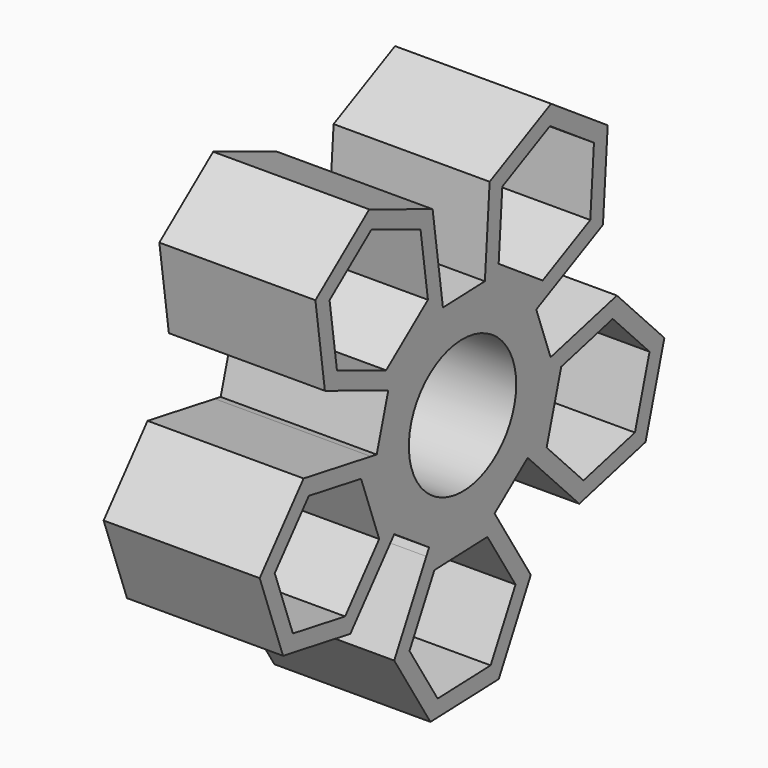
from build123d import *

# Parameters (mm, degrees)
F0_R     = 10.92
F1_DEPTH = 25.4
F2_DEPTH = 25


with BuildPart() as f1:
    # F0 (on Right) → F1 (new body)
    with BuildSketch(Plane.YZ):
        Polygon((29.540967, 29.558321), (18.013362, 37.331063), (5.518167, 31.234235), (4.550577, 17.364665), (-3.986563, 17.065152), (-4.154029, 18.255328), (-6.091229, 32.022988), (-18.982973, 37.229153), (-29.937516, 28.667658), (-28.000315, 14.899998), (-15.108572, 9.693833), (-17.46184, 1.481975), (-18.645514, 1.69049), (-32.337964, 4.102544), (-41.27309, -6.549439), (-36.515764, -19.613476), (-22.823314, -22.02553), (-13.888188, -11.373547), (-6.805447, -16.149241), (-7.369532, -17.210547), (-13.894732, -29.487476), (-6.525199, -41.276929), (7.369532, -40.789453), (13.894732, -28.512524), (6.525199, -16.723071), (13.255842, -11.462755), (14.090892, -12.327193), (23.750548, -22.326806), (37.240294, -18.961106), (41.070386, -5.595792), (31.41073, 4.403821), (17.920983, 1.03812), (14.998008, 9.064869), (16.078183, 9.591923), (28.573378, 15.688751), align=None)
        Polygon((-31.272916, 1.177826), (-20.645869, -0.694228), (-16.953593, -10.833547), (-23.888362, -19.100812), (-34.515409, -17.228758), (-38.207685, -7.089439), align=None, mode=Mode.SUBTRACT)
        Polygon((5.064367, -19.471575), (10.784042, -28.621658), (5.719675, -38.150083), (-5.064367, -38.528425), (-10.784042, -29.378342), (-5.719675, -19.849917), align=None, mode=Mode.SUBTRACT)
        Polygon((24.608011, -19.33464), (17.110916, -11.573695), (20.083544, -1.200548), (30.553267, 1.411654), (38.050362, -6.34929), (35.077734, -16.722437), align=None, mode=Mode.SUBTRACT)
        Polygon((-8.543683, 30.106279), (-7.040174, 19.42086), (-15.542264, 12.776075), (-25.547862, 16.816707), (-27.05137, 27.502125), (-18.549281, 34.146911), align=None, mode=Mode.SUBTRACT)
        Circle(F0_R, mode=Mode.SUBTRACT)
        Polygon((25.992629, 17.428877), (16.294802, 12.69698), (7.347945, 18.729595), (8.098915, 29.494108), (17.796742, 34.226006), (26.743599, 28.19339), align=None, mode=Mode.SUBTRACT)
    extrude(amount=F1_DEPTH)

    # F0 (on Right) → F2 (join)
    with BuildSketch(Plane.YZ):
        Polygon((29.540967, 29.558321), (18.013362, 37.331063), (5.518167, 31.234235), (4.550577, 17.364665), (-3.986563, 17.065152), (-4.154029, 18.255328), (-6.091229, 32.022988), (-18.982973, 37.229153), (-29.937516, 28.667658), (-28.000315, 14.899998), (-15.108572, 9.693833), (-17.46184, 1.481975), (-18.645514, 1.69049), (-32.337964, 4.102544), (-41.27309, -6.549439), (-36.515764, -19.613476), (-22.823314, -22.02553), (-13.888188, -11.373547), (-6.805447, -16.149241), (-7.369532, -17.210547), (-13.894732, -29.487476), (-6.525199, -41.276929), (7.369532, -40.789453), (13.894732, -28.512524), (6.525199, -16.723071), (13.255842, -11.462755), (14.090892, -12.327193), (23.750548, -22.326806), (37.240294, -18.961106), (41.070386, -5.595792), (31.41073, 4.403821), (17.920983, 1.03812), (14.998008, 9.064869), (16.078183, 9.591923), (28.573378, 15.688751), align=None)
        Polygon((-31.272916, 1.177826), (-20.645869, -0.694228), (-16.953593, -10.833547), (-23.888362, -19.100812), (-34.515409, -17.228758), (-38.207685, -7.089439), align=None, mode=Mode.SUBTRACT)
        Polygon((5.064367, -19.471575), (10.784042, -28.621658), (5.719675, -38.150083), (-5.064367, -38.528425), (-10.784042, -29.378342), (-5.719675, -19.849917), align=None, mode=Mode.SUBTRACT)
        Polygon((24.608011, -19.33464), (17.110916, -11.573695), (20.083544, -1.200548), (30.553267, 1.411654), (38.050362, -6.34929), (35.077734, -16.722437), align=None, mode=Mode.SUBTRACT)
        Polygon((-8.543683, 30.106279), (-7.040174, 19.42086), (-15.542264, 12.776075), (-25.547862, 16.816707), (-27.05137, 27.502125), (-18.549281, 34.146911), align=None, mode=Mode.SUBTRACT)
        Circle(F0_R, mode=Mode.SUBTRACT)
        Polygon((25.992629, 17.428877), (16.294802, 12.69698), (7.347945, 18.729595), (8.098915, 29.494108), (17.796742, 34.226006), (26.743599, 28.19339), align=None, mode=Mode.SUBTRACT)
    extrude(amount=F2_DEPTH)


solid = f1.part
